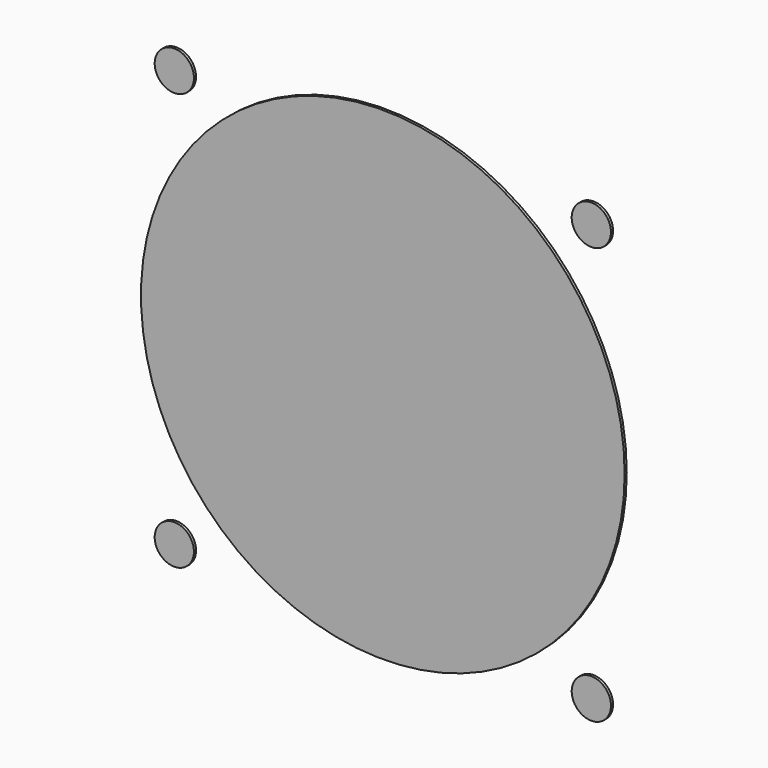
from build123d import *

# Parameters (mm, degrees)
F0_R     = 23.0124
F0_R_2   = 1.8669
F1_DEPTH = 0.254


with BuildPart() as f1:
    # F0 (on Front) → F1 (new body)
    with BuildSketch(Plane.XZ):
        Circle(F0_R)
        with Locations((-19.84375, 19.84375)):
            Circle(F0_R_2)
        with Locations((19.84375, 19.84375)):
            Circle(F0_R_2)
        with Locations((19.84375, -19.84375)):
            Circle(F0_R_2)
        with Locations((-19.84375, -19.84375)):
            Circle(F0_R_2)
    extrude(amount=F1_DEPTH)


solid = f1.part
